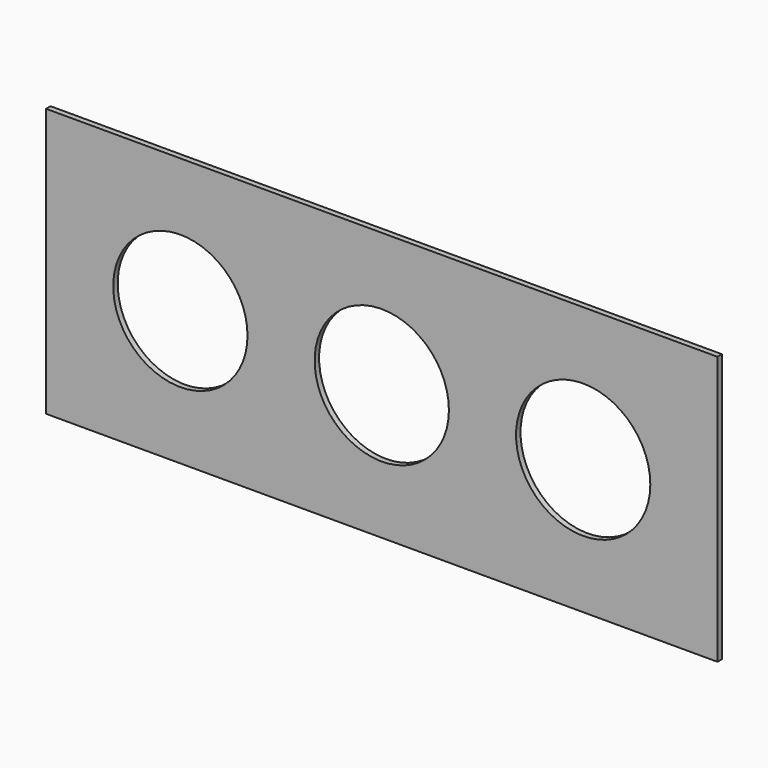
from build123d import *

# Parameters (mm, degrees)
F0_W     = 381
F0_H     = 152.4
F1_DEPTH = 1.5875
F2_R     = 38.1
F3_DEPTH = 3.175
F4_R     = 38.1
F5_DEPTH = 3.175
F6_R     = 38.1
F7_DEPTH = 3.175


with BuildPart() as f1:
    # F0 (on Front) → F1 (new body, symmetric)
    with BuildSketch(Plane.XZ):
        Rectangle(F0_W, F0_H)
    extrude(amount=F1_DEPTH, both=True)

    # F2 (on face) → F3 (cut)
    with BuildSketch(Plane.XZ.offset(1.5875)):
        Circle(F2_R)
    extrude(amount=-F3_DEPTH, mode=Mode.SUBTRACT)

    # F4 (on face) → F5 (cut)
    with BuildSketch(Plane.XZ.offset(1.5875)):
        with Locations((-114.3, 0)):
            Circle(F4_R)
    extrude(amount=-F5_DEPTH, mode=Mode.SUBTRACT)

    # F6 (on face) → F7 (cut)
    with BuildSketch(Plane.XZ.offset(1.5875)):
        with Locations((114.3, 0)):
            Circle(F6_R)
    extrude(amount=-F7_DEPTH, mode=Mode.SUBTRACT)


solid = f1.part
